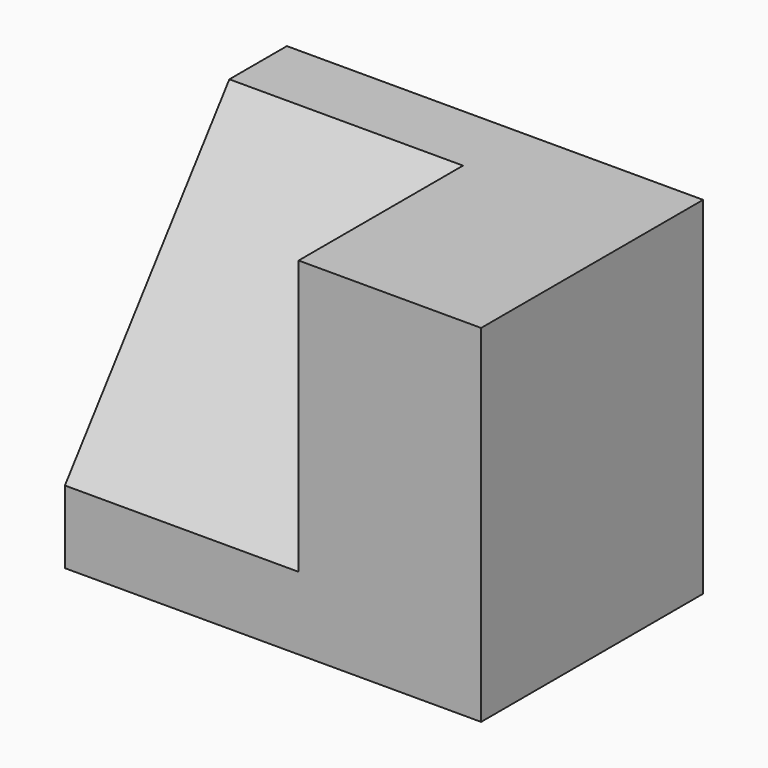
from build123d import *

# Parameters (mm, degrees)
F0_W      = 38.1
F0_H      = 31.75
F1_DEPTH  = 25.4
F1_FACE_W = 25.4
F1_FACE_H = 31.75
F3_DEPTH  = 25.4


with BuildPart() as f1:
    # F0 (on Front) → F1 (new body)
    with BuildSketch(Plane.XZ):
        with Locations((23.058977, 25.241072)):
            Rectangle(F0_W, F0_H)
    extrude(amount=F1_DEPTH)

    # F2 (on Right) + F1_face (on face) → F3 (cut)
    with BuildSketch(Plane.YZ):
        Polygon((-25.473946, 41.330271), (-25.473946, 15.930271), (-6.423946, 41.330271), align=None)
    with BuildSketch(Plane(origin=(42.108977, -12.7, 25.241072), x_dir=(0, 1, 0), z_dir=(1, 0, 0))):
        Rectangle(F1_FACE_W, F1_FACE_H)
    extrude(amount=F3_DEPTH, mode=Mode.SUBTRACT)


solid = f1.part
